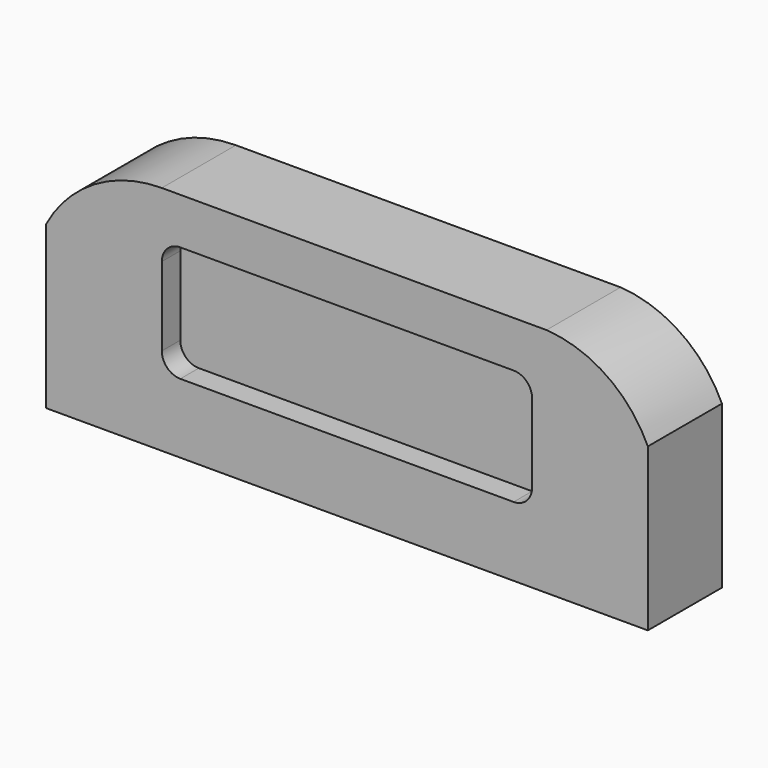
from build123d import *

# Parameters (mm, degrees)
F0_W     = 101.6
F0_H     = 12.7
F1_DEPTH = 12.7
F0_H_2   = 31.75
F2_DEPTH = 6.35
F3_W     = 152.4
F3_H     = 19.05
F4_DEPTH = 6.35
F5_W     = 76.2
F5_H     = 19.05
F6_DEPTH = 10.16
F7_R     = 5.08


with BuildPart() as f1:
    # F0 (on Front) → F1 (new body, symmetric)
    with BuildSketch(Plane.XZ):
        with BuildLine():
            Line((-50.8, 19.05), (-50.8, 31.75))
            ThreePointArc((-50.8, 31.75), (-69.3027203169, 26.6045338614), (-82.55, 12.7))
            Line((-82.55, 12.7), (-82.55, -31.75))
            Line((-82.55, -31.75), (-50.8, -31.75))
            Line((-50.8, -31.75), (-50.8, -12.7))
            Line((-50.8, -12.7), (-50.8, 19.05))
        make_face()
        with Locations((0, 25.4)):
            Rectangle(F0_W, F0_H)
        with BuildLine():
            Line((54.74242965, 31.75), (50.8, 31.75))
            Line((50.8, 31.75), (50.8, 19.05))
            Line((50.8, 19.05), (50.8, -12.7))
            Line((50.8, -12.7), (-50.8, -12.7))
            Line((-50.8, -12.7), (-50.8, -31.75))
            Line((-50.8, -31.75), (82.55, -31.75))
            Line((82.55, -31.75), (82.55, 12.7))
            ThreePointArc((82.55, 12.7), (71.2844870911, 26.0761255456), (54.74242965, 31.75))
        make_face()
    extrude(amount=F1_DEPTH, both=True)

    # F0 (on Front) → F2 (join, symmetric)
    with BuildSketch(Plane.XZ):
        with Locations((0, 3.175)):
            Rectangle(F0_W, F0_H_2)
    extrude(amount=F2_DEPTH, both=True)

    # F3 (on face) → F4 (cut)
    with BuildSketch(Plane(origin=(0, 0, -31.75), x_dir=(1, 0, 0), z_dir=(0, 0, -1))):
        Rectangle(F3_W, F3_H)
    extrude(amount=-F4_DEPTH, mode=Mode.SUBTRACT)

    # F5 (on face) → F6 (cut)
    with BuildSketch(Plane(origin=(0, 0, -25.4), x_dir=(1, 0, 0), z_dir=(0, 0, -1))):
        Rectangle(F5_W, F5_H)
    extrude(amount=-F6_DEPTH, mode=Mode.SUBTRACT)

    # F7
    f7_edges = [f1.edges().sort_by_distance(p)[0] for p in [
        (-38.1, -9.525, -20.32),
        (38.1, -9.525, -20.32),
        (38.1, 9.525, -20.32),
        (-38.1, 9.525, -20.32),
        (-50.8, -9.525, 19.05),
        (-50.8, -9.525, -12.7),
        (50.8, -9.525, 19.05),
        (50.8, -9.525, -12.7),
        (50.8, 9.525, 19.05),
        (50.8, 9.525, -12.7),
        (-50.8, 9.525, 19.05),
        (-50.8, 9.525, -12.7),
    ]]
    fillet(f7_edges, radius=F7_R)


solid = f1.part
